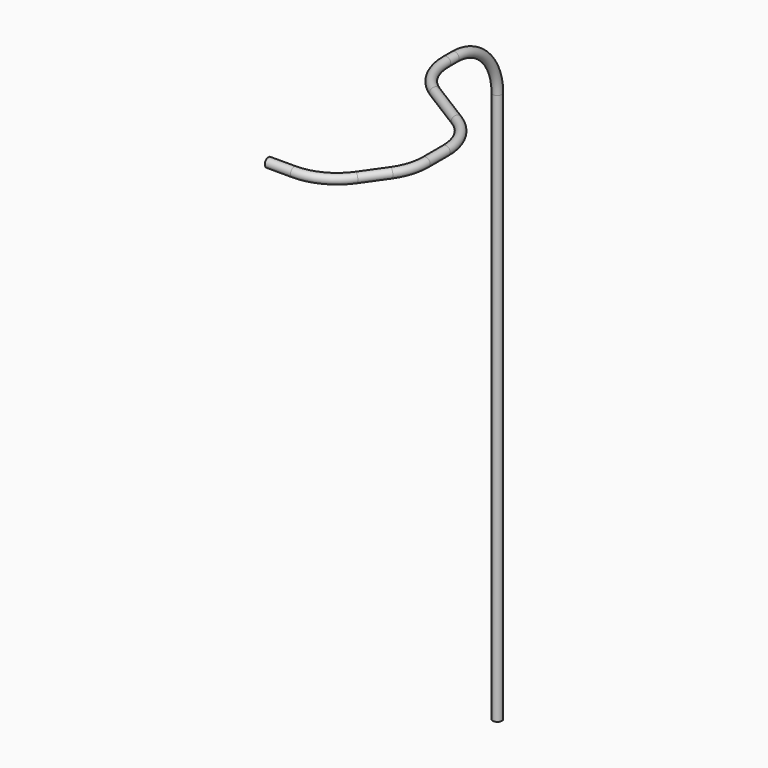
from build123d import *

# Parameters (mm, degrees)
F13_R = 4.33705
F20_T = -0.762


with BuildPart() as f19:
    # F19: sweep along a path in F15, F18, F16
    with BuildLine(Plane.XZ.offset(-174.73168)) as f19_path:
        Line((82.11312, 801.69512), (82.11312, 877.89512))
    with BuildLine(Plane(origin=(82.11312, 0, 0), x_dir=(0, -1, 0), z_dir=(-1, 0, 0))) as f19_path_2:
        Line((-174.73168, 877.89512), (-174.73168, 1324.80812))
        ThreePointArc((-174.73168, 1324.80812), (-159.8527044843, 1360.7291444843), (-123.93168, 1375.60812))
        Line((-123.93168, 1375.60812), (-114.0436312907, 1375.60812))
    with BuildLine(Plane.XY.offset(1375.60812)) as f19_path_3:
        ThreePointArc((82.11312, 114.0436312907), (88.502118987, 89.3798321303), (106.0620565758, 70.9198513892))
        Line((106.0620565758, 70.9198513892), (147.0641834242, 45.3898372984))
        ThreePointArc((147.0641834242, 45.3898372984), (164.624121013, 26.9298565574), (171.01312, 2.266057397))
        Line((171.01312, 2.266057397), (171.01312, -21.5422784919))
        ThreePointArc((171.01312, -21.5422784919), (168.6529903434, -36.8464923273), (161.7919010583, -50.728661716))
        Line((161.7919010583, -50.728661716), (146.2662403552, -72.8464432241))
        ThreePointArc((146.2662403552, -72.8464432241), (128.1179067128, -88.7339341833), (104.6874592969, -94.46006))
        Line((104.6874592969, -94.46006), (80.29448, -94.46006))
    # F13 (on line) → F19 (sweep)
    with BuildSketch(Plane.XY.offset(801.69512)):
        with Locations((82.11312, 174.73168)):
            Circle(F13_R)
    sweep(path=f19_path.line + f19_path_2.line + f19_path_3.line)

    # F20
    f20_openings = [f19.faces().sort_by_distance(p)[0] for p in [
        (82.11312, 174.73168, 801.69512),
    ]]
    offset(amount=F20_T, openings=f20_openings)


solid = f19.part
